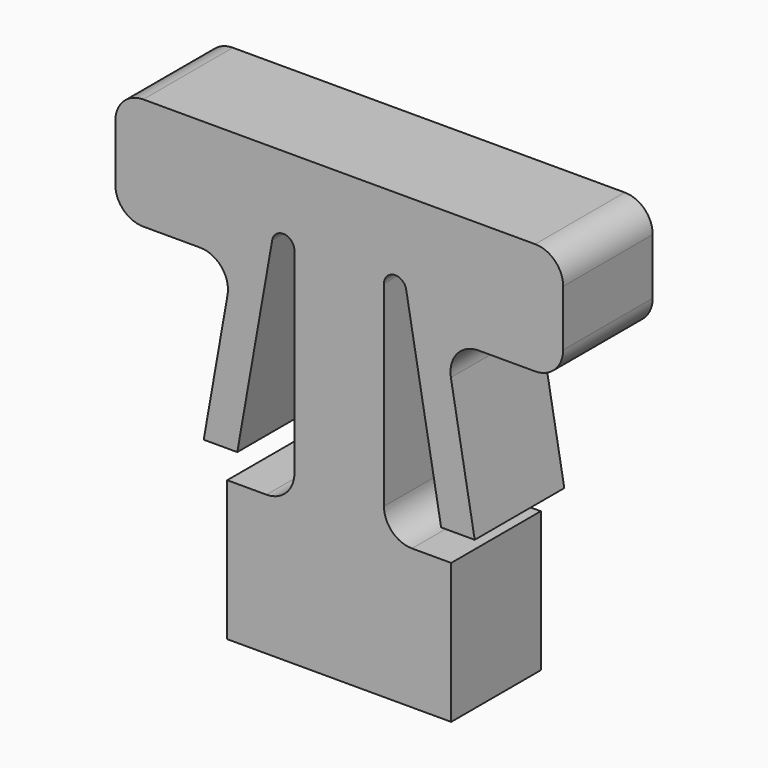
from build123d import *

# Parameters (mm, degrees)
F1_DEPTH = 4
F2_R     = 1


with BuildPart() as f1:
    # F0 (on Front) → F1 (new body)
    with BuildSketch(Plane.XZ):
        with BuildLine():
            Line((8, 12), (8, 16))
            Line((8, 16), (0, 16))
            Line((0, 16), (-8, 16))
            Line((-8, 16), (-8, 12))
            Line((-8, 12), (-4.974251, 12))
            ThreePointArc((-4.974251, 12), (-4.208207, 11.642788), (-3.989443, 10.826352))
            Line((-3.989443, 10.826352), (-4.84046, 6))
            Line((-4.84046, 6), (-3.64046, 6))
            Line((-3.64046, 6), (-2.393923, 13.069459))
            ThreePointArc((-2.393923, 13.069459), (-1.965138, 13.398478), (-1.6, 13))
            Line((-1.6, 13), (-1.6, 5))
            Line((-1.6, 5), (-4, 5))
            Line((-4, 5), (-4, 0))
            Line((-4, 0), (0, 0))
            Line((0, 0), (4, 0))
            Line((4, 0), (4, 5))
            Line((4, 5), (1.6, 5))
            Line((1.6, 5), (1.6, 13))
            ThreePointArc((1.6, 13), (1.965138, 13.398478), (2.393923, 13.069459))
            Line((2.393923, 13.069459), (3.64046, 6))
            Line((3.64046, 6), (4.84046, 6))
            Line((4.84046, 6), (3.989443, 10.826352))
            ThreePointArc((3.989443, 10.826352), (4.208207, 11.642788), (4.974251, 12))
            Line((4.974251, 12), (8, 12))
        make_face()
    extrude(amount=F1_DEPTH)

    # F2
    f2_edges = [f1.edges().sort_by_distance(p)[0] for p in [
        (8, -2, 12),
        (8, -2, 16),
        (-8, -2, 12),
        (-8, -2, 16),
        (1.6, -2, 5),
        (-1.6, -2, 5),
    ]]
    fillet(f2_edges, radius=F2_R)


solid = f1.part
